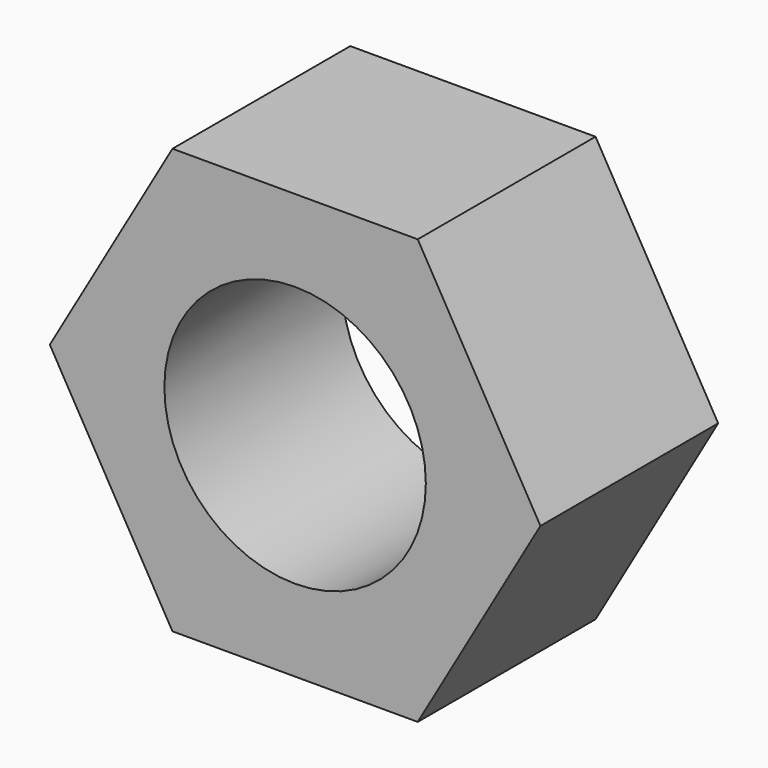
from build123d import *

# Parameters (mm, degrees)
F1_DEPTH = 6.8
F2_R     = 4
F3_DEPTH = 6.801


with BuildPart() as f1:
    # F0 (on Front) → F1 (new body)
    with BuildSketch(Plane.XZ):
        Polygon((3.752777, -6.5), (7.505553, 0), (3.752777, 6.5), (-3.752777, 6.5), (-7.505553, 0), (-3.752777, -6.5), align=None)
    extrude(amount=F1_DEPTH)

    # F2 (on face) → F3 (cut, through all)
    with BuildSketch(Plane.XZ.offset(6.8)):
        Circle(F2_R)
    extrude(amount=-F3_DEPTH, mode=Mode.SUBTRACT)


solid = f1.part
